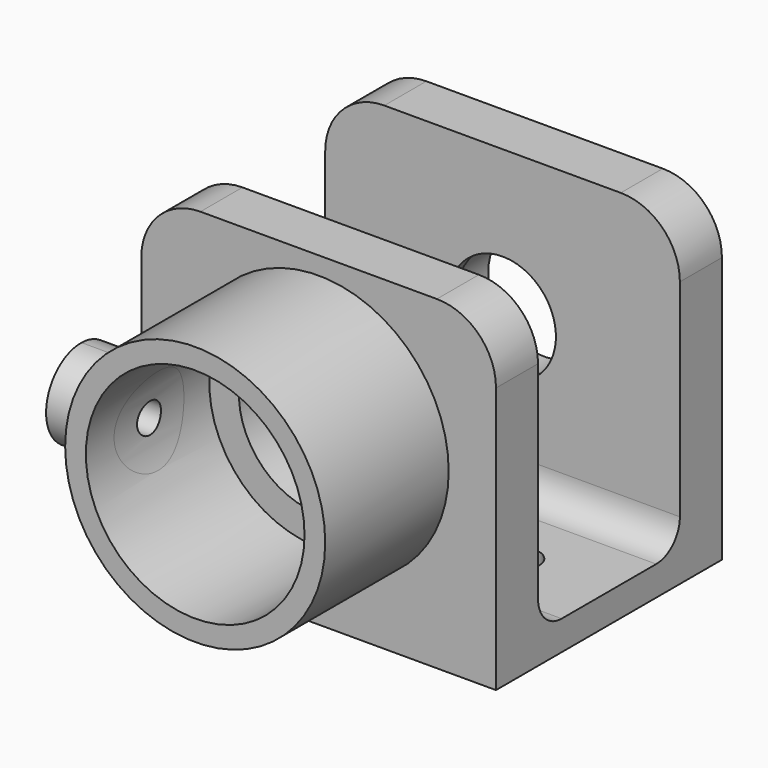
from build123d import *

# Parameters (mm, degrees)
F0_W      = 60
F0_H      = 50
F0_R      = 22
F0_R_2    = 18.5
F0_R_3    = 13.5
F0_H_2    = 5
F1_DEPTH  = 8.89
F2_DEPTH  = 35
F3_W      = 30
F3_H      = 5
F4_DEPTH  = 60
F5_R      = 5
F6_R      = 9.025
F7_DEPTH  = 7.112
F8_DEPTH  = 25
F6_R_2    = 9.525
F9_DEPTH  = 7.112
F10_R     = 10
F12_DEPTH = 30
F13_R     = 18.5
F14_DEPTH = 22
F15_R     = 2.5275
F16_DEPTH = 13
F17_R     = 3.175
F18_DEPTH = 25


with BuildPart() as f1:
    # F0 (on Front) → F1 (new body)
    with BuildSketch(Plane.XZ):
        Rectangle(F0_W, F0_H)
        Circle(F0_R, mode=Mode.SUBTRACT)
        Circle(F0_R)
        Circle(F0_R_2, mode=Mode.SUBTRACT)
        Circle(F0_R_2)
        Circle(F0_R_3, mode=Mode.SUBTRACT)
        with Locations((0, -27.5)):
            Rectangle(F0_W, F0_H_2)
    extrude(amount=F1_DEPTH)

    # F0 (on Front) → F2 (join)
    with BuildSketch(Plane.XZ):
        Circle(F0_R)
        Circle(F0_R_2, mode=Mode.SUBTRACT)
    extrude(amount=F2_DEPTH)

    # F3 (on face) → F4 (join)
    with BuildSketch(Plane.YZ.offset(30)):
        Polygon((30, -25), (30, -30), (38.89, -30), (38.89, 25), (30, 25), align=None)
        with Locations((15, -27.5)):
            Rectangle(F3_W, F3_H)
    extrude(amount=-F4_DEPTH)

    # F5
    f5_edges = [f1.edges().sort_by_distance(p)[0] for p in [
        (0, 30, -25),
        (0, 0, -25),
    ]]
    fillet(f5_edges, radius=F5_R)

    # F6 (on face) → F7 (cut)
    with BuildSketch(Plane(origin=(0, 38.89, 0), x_dir=(-1, 0, 0), z_dir=(0, 1, 0))):
        Circle(F6_R)
    extrude(amount=-F7_DEPTH, mode=Mode.SUBTRACT)

    # F6 (on face) → F8 (cut)
    with BuildSketch(Plane(origin=(0, 38.89, 0), x_dir=(-1, 0, 0), z_dir=(0, 1, 0))):
        Circle(F6_R)
    extrude(amount=-F8_DEPTH, mode=Mode.SUBTRACT)

    # F6 (on face) → F9 (cut)
    with BuildSketch(Plane(origin=(0, 38.89, 0), x_dir=(-1, 0, 0), z_dir=(0, 1, 0))):
        Circle(F6_R_2)
        Circle(F6_R, mode=Mode.SUBTRACT)
    extrude(amount=-F9_DEPTH, mode=Mode.SUBTRACT)

    # F10
    f10_edges = [f1.edges().sort_by_distance(p)[0] for p in [
        (30, -4.445, 25),
        (30, 34.445, 25),
        (-30, -4.445, 25),
        (-30, 34.445, 25),
    ]]
    fillet(f10_edges, radius=F10_R)

    # F11 (on Right) → F12 (join)
    with BuildSketch(Plane.YZ):
        with BuildLine():
            ThreePointArc((-21.5492570434, 7.385385089), (-29.0335155473, 0.0988734149), (-21.7470038732, -7.385385089))
            Line((-21.7470038732, -7.385385089), (-21.5492570434, 7.385385089))
        make_face()
        with BuildLine():
            Line((-21.5492570434, 7.385385089), (-21.7470038732, -7.385385089))
            ThreePointArc((-21.7470038732, -7.385385089), (-16.4604814154, -5.2575646712), (-14.2620835546, 0))
            ThreePointArc((-14.2620835546, 0), (-16.3905657871, 5.1876490429), (-21.5492570434, 7.385385089))
        make_face()
    extrude(amount=-F12_DEPTH)

    # F13 (on face) → F14 (cut)
    with BuildSketch(Plane.XZ.offset(35)):
        Circle(F13_R)
    extrude(amount=-F14_DEPTH, mode=Mode.SUBTRACT)

    # F15 (on face) → F16 (cut)
    with BuildSketch(Plane(origin=(-30, 0, 0), x_dir=(0, -1, 0), z_dir=(-1, 0, 0))):
        with Locations((21.6481304583, 0)):
            Circle(F15_R)
    extrude(amount=-F16_DEPTH, mode=Mode.SUBTRACT)

    # F17 (on face) → F18 (cut)
    with BuildSketch(Plane(origin=(0, 0, -30), x_dir=(1, 0, 0), z_dir=(0, 0, -1))):
        with Locations((-15, -15)):
            Circle(F17_R)
        with Locations((15, -15)):
            Circle(F17_R)
    extrude(amount=-F18_DEPTH, mode=Mode.SUBTRACT)


solid = f1.part
